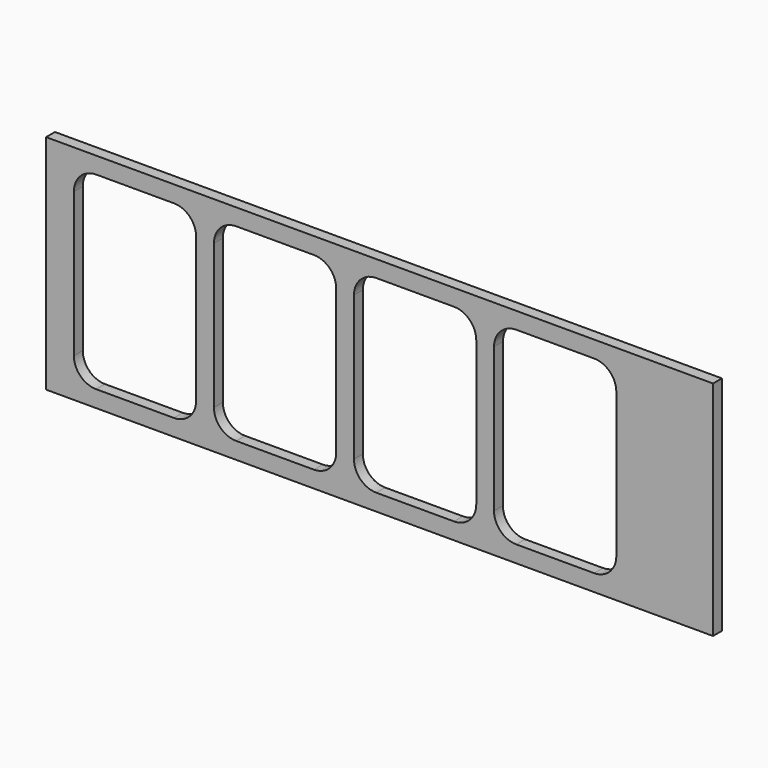
from build123d import *

# Parameters (mm, degrees)
F0_W     = 76.2
F0_H     = 25.4
F1_DEPTH = 1.27


with BuildPart() as f1:
    # F0 (on Front) → F1 (new body)
    with BuildSketch(Plane.XZ):
        Rectangle(F0_W, F0_H)
        with BuildLine():
            ThreePointArc((-34.925, 8.255), (-34.181051, 10.051051), (-32.385, 10.795))
            Line((-32.385, 10.795), (-23.495, 10.795))
            ThreePointArc((-23.495, 10.795), (-21.698949, 10.051051), (-20.955, 8.255))
            Line((-20.955, 8.255), (-20.955, -8.255))
            ThreePointArc((-20.955, -8.255), (-21.698949, -10.051051), (-23.495, -10.795))
            Line((-23.495, -10.795), (-32.385, -10.795))
            ThreePointArc((-32.385, -10.795), (-34.181051, -10.051051), (-34.925, -8.255))
            Line((-34.925, -8.255), (-34.925, 8.255))
        make_face(mode=Mode.SUBTRACT)
        with BuildLine():
            ThreePointArc((-18.923, 8.255), (-18.179051, 10.051051), (-16.383, 10.795))
            Line((-16.383, 10.795), (-7.493, 10.795))
            ThreePointArc((-7.493, 10.795), (-5.696949, 10.051051), (-4.953, 8.255))
            Line((-4.953, 8.255), (-4.953, -8.255))
            ThreePointArc((-4.953, -8.255), (-5.696949, -10.051051), (-7.493, -10.795))
            Line((-7.493, -10.795), (-16.383, -10.795))
            ThreePointArc((-16.383, -10.795), (-18.179051, -10.051051), (-18.923, -8.255))
            Line((-18.923, -8.255), (-18.923, 8.255))
        make_face(mode=Mode.SUBTRACT)
        with BuildLine():
            ThreePointArc((-2.921, 8.255), (-2.177051, 10.051051), (-0.381, 10.795))
            Line((-0.381, 10.795), (8.509, 10.795))
            ThreePointArc((8.509, 10.795), (10.305051, 10.051051), (11.049, 8.255))
            Line((11.049, 8.255), (11.049, -8.255))
            ThreePointArc((11.049, -8.255), (10.305051, -10.051051), (8.509, -10.795))
            Line((8.509, -10.795), (-0.381, -10.795))
            ThreePointArc((-0.381, -10.795), (-2.177051, -10.051051), (-2.921, -8.255))
            Line((-2.921, -8.255), (-2.921, 8.255))
        make_face(mode=Mode.SUBTRACT)
        with BuildLine():
            ThreePointArc((13.081, 8.255), (13.824949, 10.051051), (15.621, 10.795))
            Line((15.621, 10.795), (24.511, 10.795))
            ThreePointArc((24.511, 10.795), (26.307051, 10.051051), (27.051, 8.255))
            Line((27.051, 8.255), (27.051, -8.255))
            ThreePointArc((27.051, -8.255), (26.307051, -10.051051), (24.511, -10.795))
            Line((24.511, -10.795), (15.621, -10.795))
            ThreePointArc((15.621, -10.795), (13.824949, -10.051051), (13.081, -8.255))
            Line((13.081, -8.255), (13.081, 8.255))
        make_face(mode=Mode.SUBTRACT)
    extrude(amount=F1_DEPTH)


solid = f1.part
